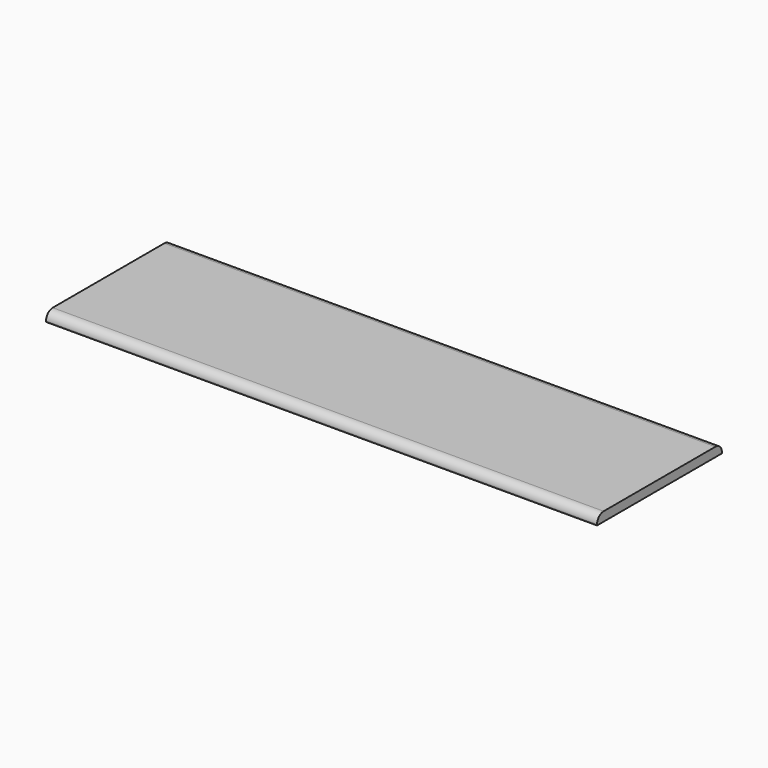
from build123d import *

# Parameters (mm, degrees)
SKETCH_W  = 600
SKETCH_H  = 170
PAD_DEPTH = 10
FILLET_R  = 9


with BuildPart() as part:
    # Sketch → Pad (new body)
    with BuildSketch(Plane.XY):
        with Locations((300, 85)):
            Rectangle(SKETCH_W, SKETCH_H)
    extrude(amount=PAD_DEPTH)

    # Fillet
    fillet_edges = [part.edges().sort_by_distance(p)[0] for p in [
        (300, 0, 10),
        (300, 170, 10),
    ]]
    fillet(fillet_edges, radius=FILLET_R)


solid = part.part
